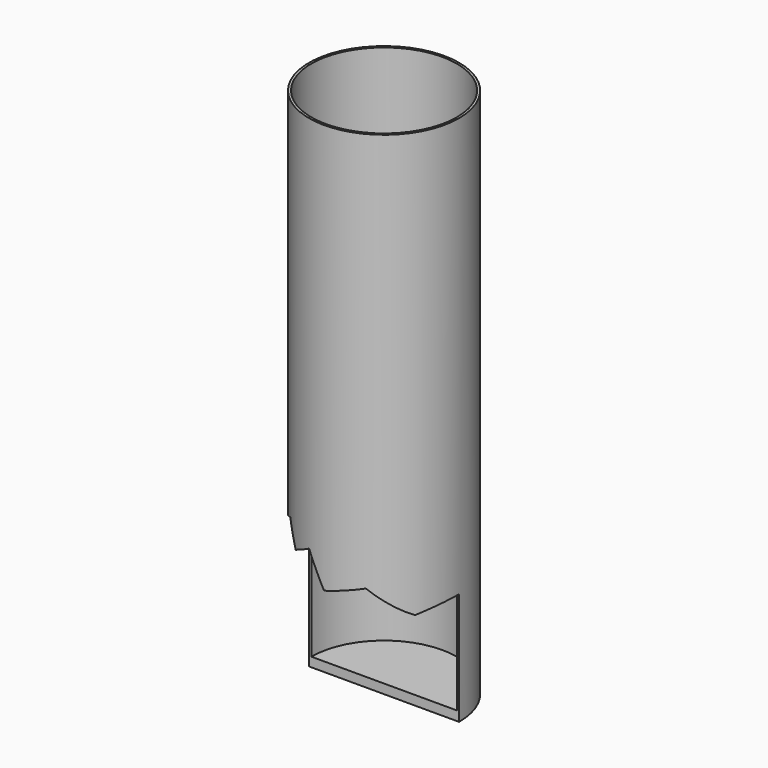
from build123d import *

# Parameters (mm, degrees)
F0_R     = 203.2
F0_R_2   = 196.85
F1_DEPTH = 1438.656
F2_R     = 196.85
F3_DEPTH = 25.4
F5_DEPTH = 508


with BuildPart() as f1:
    # F0 (on Top) → F1 (new body)
    with BuildSketch(Plane.XY):
        Circle(F0_R)
        Circle(F0_R_2, mode=Mode.SUBTRACT)
    extrude(amount=F1_DEPTH)

    # F2 (on face) → F3 (join)
    with BuildSketch(Plane(origin=(0, 0, 0), x_dir=(1, 0, 0), z_dir=(0, 0, -1))):
        Circle(F2_R)
    extrude(amount=-F3_DEPTH)

    # F4 (on Front) → F5 (cut)
    with BuildSketch(Plane.XZ):
        Polygon((-233.4638088942, 475.3084182739), (-262.1978223324, -27.536733076), (319.6658492088, -27.536733076), (319.6658492088, 288.5373830795), (228.6748290062, 317.2713816166), (171.2068021297, 288.5373830795), (94.5827811956, 355.5833995342), (0, 329.2438983917), (-44.2982390523, 413.0514264107), (-95.6870245125, 385.8887984614), (-126.9621838043, 445.0580531478), (-167.1748505567, 423.8027987949), align=None)
    extrude(amount=F5_DEPTH, mode=Mode.SUBTRACT)


solid = f1.part
